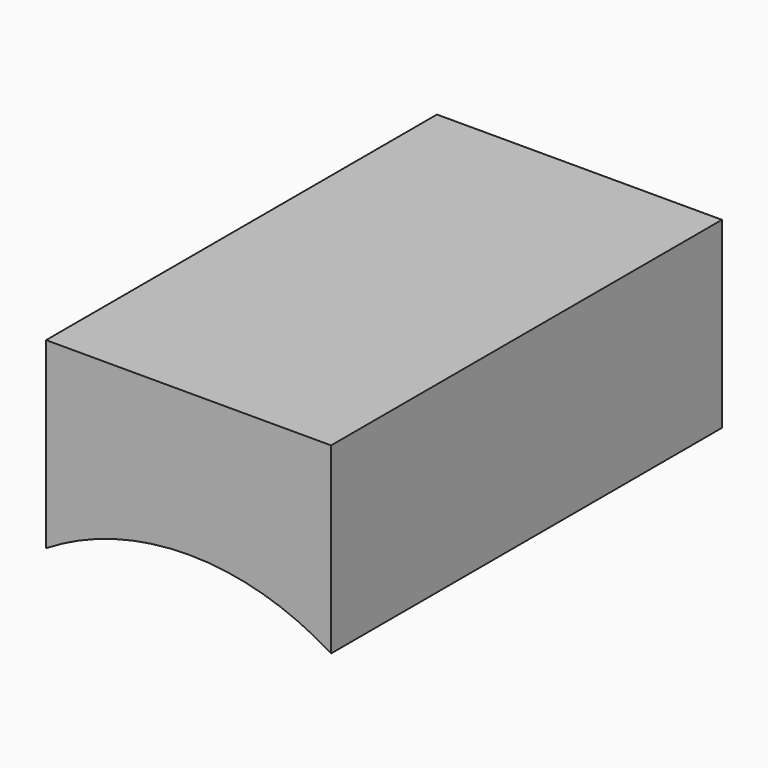
from build123d import *

# Parameters (mm, degrees)
F1_DEPTH = 304.8


with BuildPart() as f1:
    # F0 (on Front) → F1 (new body)
    with BuildSketch(Plane.XZ):
        with BuildLine():
            ThreePointArc((-88.9, 0), (-46.228698, 18.925442), (0, 25.4))
            Line((0, 25.4), (0, 114.3))
            Line((0, 114.3), (-88.9, 114.3))
            Line((-88.9, 114.3), (-88.9, 0))
        make_face()
    extrude(amount=-F1_DEPTH)

    # F2: F1 across plane


with BuildPart() as f1_1:
    add(f1.part)
    add(f1.part.mirror(Plane.YZ))


solid = f1_1.part
